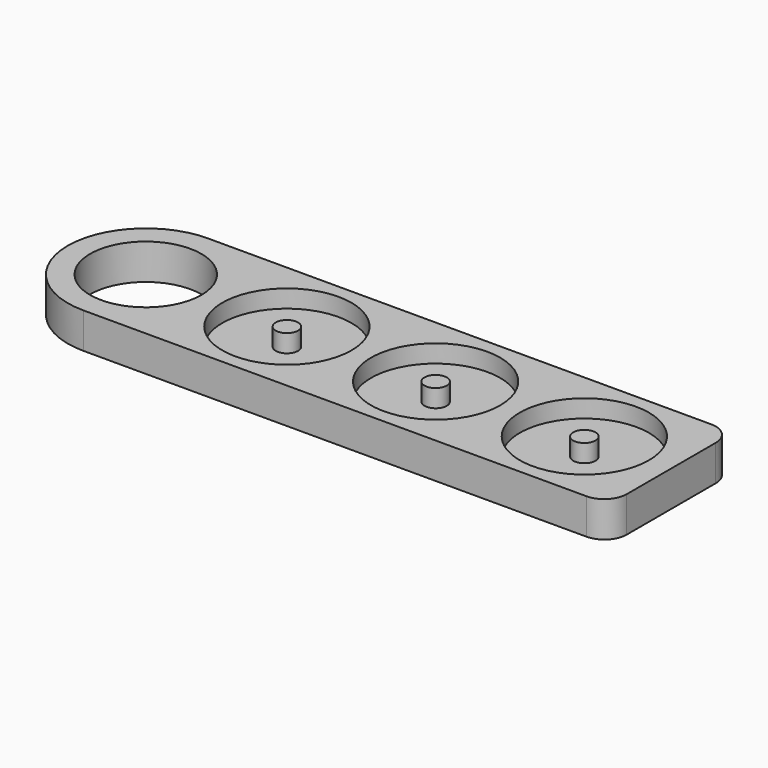
from build123d import *

# Parameters (mm, degrees)
F0_R     = 12.5
F1_DEPTH = 8
F2_R     = 14.5
F2_R_2   = 2.5
F3_DEPTH = 4


with BuildPart() as f1:
    # F0 (on Top) → F1 (new body)
    with BuildSketch(Plane.XY):
        with BuildLine():
            ThreePointArc((0, 17.5), (5.125631, 5.125631), (17.5, 0))
            Line((17.5, 0), (130.5, 0))
            ThreePointArc((130.5, 0), (134.035534, 1.464466), (135.5, 5))
            Line((135.5, 5), (135.5, 30))
            ThreePointArc((135.5, 30), (134.035534, 33.535534), (130.5, 35))
            Line((130.5, 35), (17.5, 35))
            ThreePointArc((17.5, 35), (5.125631, 29.874369), (0, 17.5))
        make_face()
        with Locations((17.5, 17.5)):
            Circle(F0_R, mode=Mode.SUBTRACT)
    extrude(amount=F1_DEPTH)

    # F2 (on face) → F3 (cut)
    with BuildSketch(Plane.XY.offset(8)):
        with Locations((49.2, 17.5)):
            Circle(F2_R)
        with Locations((49.2, 17.5)):
            Circle(F2_R_2, mode=Mode.SUBTRACT)
        with Locations((82.6, 17.5)):
            Circle(F2_R)
        with Locations((82.6, 17.5)):
            Circle(F2_R_2, mode=Mode.SUBTRACT)
        with Locations((116, 17.5)):
            Circle(F2_R)
        with Locations((116, 17.5)):
            Circle(F2_R_2, mode=Mode.SUBTRACT)
    extrude(amount=-F3_DEPTH, mode=Mode.SUBTRACT)


solid = f1.part
